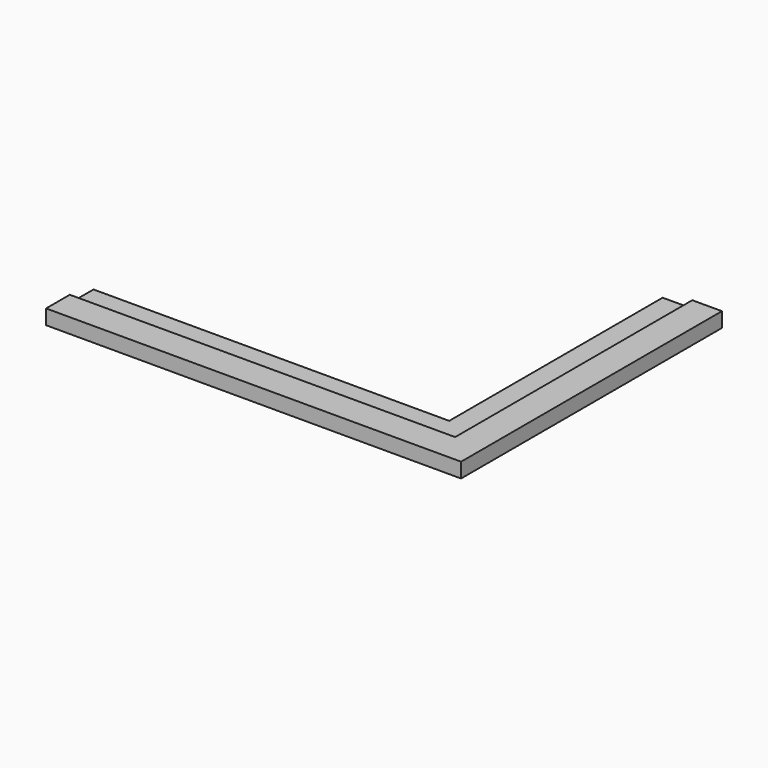
from build123d import *

# Parameters (mm, degrees)
F1_DEPTH = 6.35
F3_DEPTH = 3.175


with BuildPart() as f1:
    # F0 (on Top) → F1 (new body)
    with BuildSketch(Plane.XY):
        Polygon((-177.8, 0), (0, 0), (0, 139.7), (-25.4, 139.7), (-25.4, 25.4), (-177.8, 25.4), align=None)
    extrude(amount=F1_DEPTH)

    # F2 (on face) → F3 (cut)
    with BuildSketch(Plane.XY.offset(6.35)):
        Polygon((-177.8, 25.4), (-177.8, 12.7), (-25.4, 12.7), (-12.7, 12.7), (-12.7, 25.4), (-12.7, 139.7), (-25.4, 139.7), (-25.4, 25.4), align=None)
    extrude(amount=-F3_DEPTH, mode=Mode.SUBTRACT)


solid = f1.part
